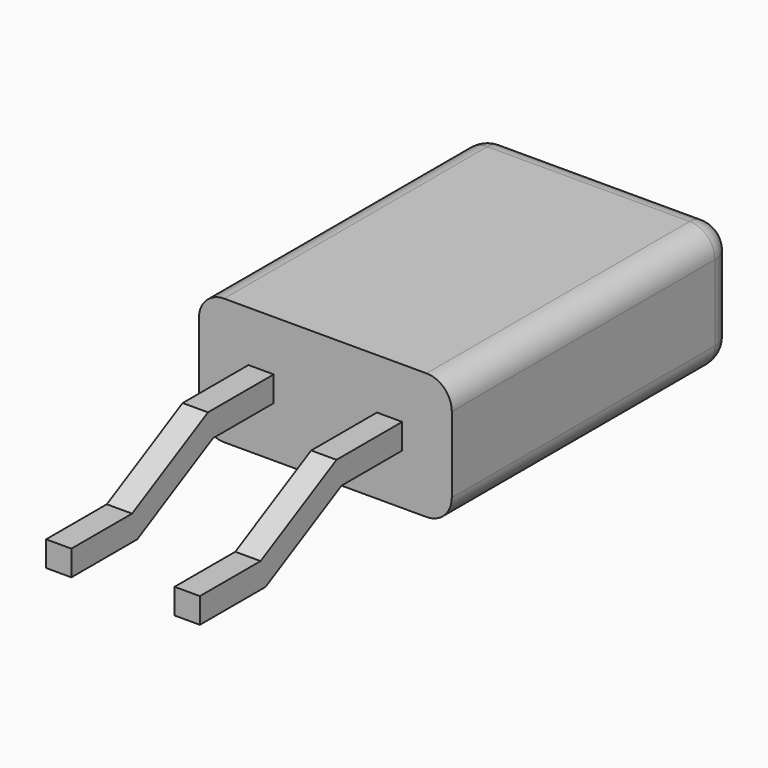
from build123d import *

# Parameters (mm, degrees)
F0_W     = 5
F0_H     = 7
F1_DEPTH = 2.5
F3_R     = 0.5
F4_DEPTH = 5
F6_DEPTH = 4.021


with BuildPart() as f1:
    # F0 (on Top) → F1 (new body)
    with BuildSketch(Plane.XY):
        Rectangle(F0_W, F0_H)
    extrude(amount=F1_DEPTH)

    # F3
    f3_edges = [f1.edges().sort_by_distance(p)[0] for p in [
        (2.5, 0, 2.5),
        (2.5, 0, 0),
        (-2.5, 0, 0),
        (-2.5, 0, 2.5),
        (0, 3.5, 0),
        (0, 3.5, 2.5),
        (-2.5, 3.5, 1.25),
        (2.5, 3.5, 1.25),
    ]]
    fillet(f3_edges, radius=F3_R)


with BuildPart() as f4:
    # F2 (on face) → F4 (new body)
    with BuildSketch(Plane.XZ.offset(3.5)):
        Polygon((-1.02, 1), (-1.02, 1.5), (-1.52, 1.5), (-1.52, 1), (-1.52, 0), (-1.02, 0), align=None)
        Polygon((1.52, 1), (1.52, 1.5), (1.02, 1.5), (1.02, 1), (1.02, 0), (1.52, 0), align=None)
    extrude(amount=F4_DEPTH)

    # F5 (on face) → F6 (cut, through all)
    with BuildSketch(Plane.YZ.offset(1.52)):
        Polygon((-5.125, 1.5), (-8.5, 1.5), (-8.5, 1), (-8.5, 0.5), (-7, 0.5), (-6.0625, 1), align=None)
        Polygon((-5.9375, 0.5), (-6.875, 0), (-3.5, 0), (-3.5, 0.5), (-3.5, 1), (-5, 1), align=None)
    extrude(amount=-F6_DEPTH, mode=Mode.SUBTRACT)


solid = Compound([f1.part, f4.part])
